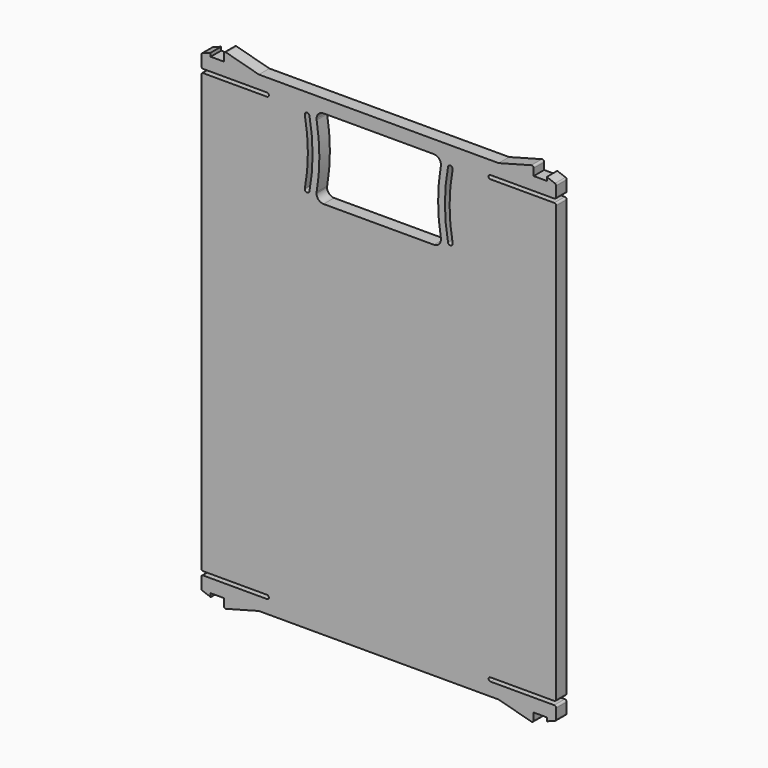
from build123d import *

# Parameters (mm, degrees)
PAD008_DEPTH    = 2.8
FILLET001_R     = 0.4
POCKET007_DEPTH = 2.801


with BuildPart() as part:
    # Sketch008 (on Face4 of ShapeBinder007) → Pad008 (new body)
    with BuildSketch(Plane(origin=(0, 20.211282, 0), x_dir=(-1, 0, 0), z_dir=(0, 1, 0))):
        with BuildLine():
            Line((37.8, 63.127675), (37.8, 60.327675))
            Line((37.8, 60.327675), (23.8, 60.327675))
            ThreePointArc((23.8, 60.327675), (23.4, 59.927675), (23.8, 59.527675))
            Line((23.8, 59.527675), (37.8, 59.527675))
            Line((37.8, 59.527675), (37.8, -33.872325))
            Line((37.8, -33.872325), (23.8, -33.872325))
            ThreePointArc((23.8, -33.872325), (23.4, -34.272325), (23.8, -34.672325))
            Line((23.8, -34.672325), (37.8, -34.672325))
            Line((37.8, -34.672325), (37.8, -37.472325))
            Line((37.8, -37.472325), (35.8, -38.222325))
            Line((35.8, -38.222325), (35.8, -37.472325))
            Line((35.8, -37.472325), (33, -37.472325))
            Line((33, -39.472325), (33, -37.472325))
            Line((25.535898, -37.472325), (33, -39.472325))
            Line((-25.535898, -37.472325), (25.535898, -37.472325))
            Line((-33, -39.472325), (-25.535898, -37.472325))
            Line((-33, -37.472325), (-33, -39.472325))
            Line((-35.8, -37.472325), (-33, -37.472325))
            Line((-35.8, -38.222325), (-35.8, -37.472325))
            Line((-37.8, -37.472325), (-35.8, -38.222325))
            Line((-37.8, -37.472325), (-37.8, -34.672325))
            Line((-37.8, -34.672325), (-23.8, -34.672325))
            ThreePointArc((-23.8, -34.672325), (-23.4, -34.272325), (-23.8, -33.872325))
            Line((-23.8, -33.872325), (-37.8, -33.872325))
            Line((-37.8, -33.872325), (-37.8, 59.527675))
            Line((-23.8, 59.527675), (-37.8, 59.527675))
            ThreePointArc((-23.8, 59.527675), (-23.4, 59.927675), (-23.8, 60.327675))
            Line((-37.8, 60.327675), (-23.8, 60.327675))
            Line((-37.8, 60.327675), (-37.8, 63.127675))
            Line((-37.8, 63.127675), (-35.8, 63.877675))
            Line((-35.8, 63.877675), (-35.8, 63.127675))
            Line((-35.8, 63.127675), (-33, 63.127675))
            Line((-33, 65.127675), (-33, 63.127675))
            Line((-25.535898, 63.127675), (-33, 65.127675))
            Line((25.535898, 63.127675), (-25.535898, 63.127675))
            Line((33, 65.127675), (25.535898, 63.127675))
            Line((33, 63.127675), (33, 65.127675))
            Line((35.8, 63.127675), (33, 63.127675))
            Line((35.8, 63.877675), (35.8, 63.127675))
            Line((37.8, 63.127675), (35.8, 63.877675))
        make_face()
    extrude(amount=-PAD008_DEPTH)

    # Fillet001
    fillet001_edges = [part.edges().sort_by_distance(p)[0] for p in [
        (-33, 18.811282, 65.127675),
        (-37.8, 18.811282, 63.127675),
        (-37.8, 18.811282, 60.327675),
        (-37.8, 18.811282, 59.527675),
        (-37.8, 18.811282, -33.872325),
        (-37.8, 18.811282, -34.672325),
        (-37.8, 18.811282, -37.472325),
        (-33, 18.811282, -39.472325),
        (33, 18.811282, 65.127675),
        (37.8, 18.811282, 63.127675),
        (37.8, 18.811282, 60.327675),
        (37.8, 18.811282, 59.527675),
        (37.8, 18.811282, -33.872325),
        (37.8, 18.811282, -34.672325),
        (37.8, 18.811282, -37.472325),
        (33, 18.811282, -39.472325),
    ]]
    fillet(fillet001_edges, radius=FILLET001_R)

    # Sketch017 (on Face2 of Fillet001) → Pocket007 (cut, through all)
    with BuildSketch(Plane(origin=(0, 20.211282, 0), x_dir=(-1, 0, 0), z_dir=(0, 1, 0))):
        with BuildLine():
            ThreePointArc((-11.75, 60.327675), (-12.81066, 59.888335), (-13.25, 58.827675))
            ThreePointArc((-13.25, 58.827675), (-13.24452, 58.699573), (-13.22812, 58.572408))
            ThreePointArc((-13.22812, 45.082943), (-12.65, 51.827675), (-13.22812, 58.572408))
            ThreePointArc((-13.22812, 45.082943), (-13.24452, 44.955777), (-13.25, 44.827675))
            ThreePointArc((-13.25, 44.827675), (-12.81066, 43.767015), (-11.75, 43.327675))
            Line((11.75, 43.327675), (-11.75, 43.327675))
            ThreePointArc((11.75, 43.327675), (12.81066, 43.767015), (13.25, 44.827675))
            ThreePointArc((13.25, 44.827675), (13.24452, 44.955777), (13.22812, 45.082943))
            ThreePointArc((13.22812, 58.572408), (12.65, 51.827675), (13.22812, 45.082943))
            ThreePointArc((13.22812, 58.572408), (13.24452, 58.699573), (13.25, 58.827675))
            ThreePointArc((13.25, 58.827675), (12.81066, 59.888335), (11.75, 60.327675))
            Line((-11.75, 60.327675), (11.75, 60.327675))
        make_face()
        with BuildLine():
            ThreePointArc((-14.7587, 44.73481), (-14.09424, 51.827675), (-14.7587, 58.92054))
            ThreePointArc((-14.7587, 58.92054), (-15.342865, 59.318975), (-15.7413, 58.73481))
            ThreePointArc((-15.7413, 44.92054), (-15.09424, 51.827675), (-15.7413, 58.73481))
            ThreePointArc((-15.7413, 44.92054), (-15.342865, 44.336375), (-14.7587, 44.73481))
        make_face()
        with BuildLine():
            ThreePointArc((14.7587, 58.92054), (14.09424, 51.827675), (14.7587, 44.73481))
            ThreePointArc((14.7587, 44.73481), (15.342865, 44.336375), (15.7413, 44.92054))
            ThreePointArc((15.7413, 58.73481), (15.09424, 51.827675), (15.7413, 44.92054))
            ThreePointArc((15.7413, 58.73481), (15.342865, 59.318975), (14.7587, 58.92054))
        make_face()
    extrude(amount=-POCKET007_DEPTH, mode=Mode.SUBTRACT)


solid = part.part
